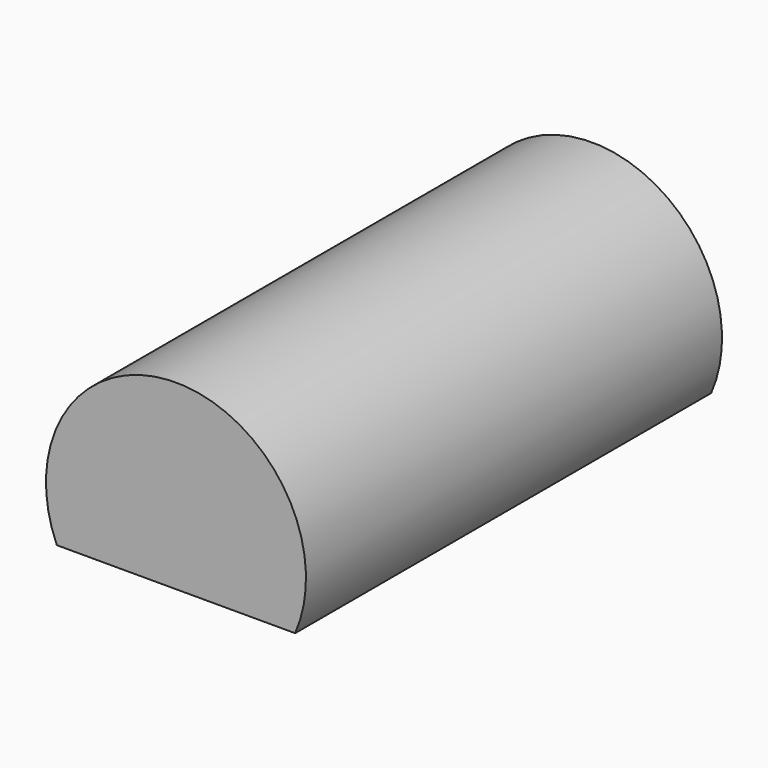
from build123d import *

# Parameters (mm, degrees)
F1_DEPTH = 254


with BuildPart() as f1:
    # F0 (on Front) → F1 (new body)
    with BuildSketch(Plane.XZ):
        with BuildLine():
            Line((0, -25.4), (58.198711, -25.4))
            ThreePointArc((58.198711, -25.4), (0, 63.5), (-58.198711, -25.4))
            Line((-58.198711, -25.4), (0, -25.4))
        make_face()
    extrude(amount=-F1_DEPTH)


solid = f1.part
